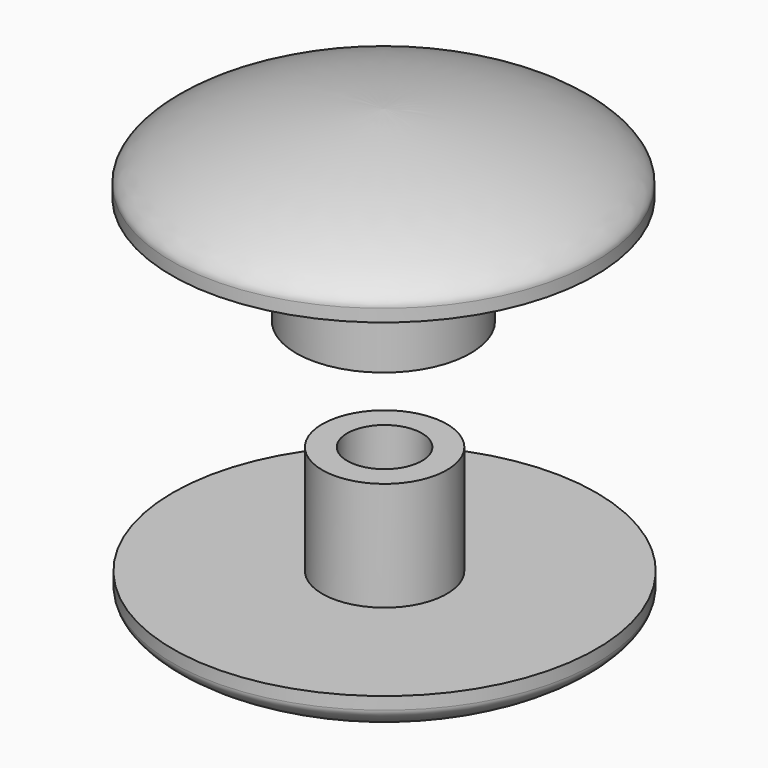
from build123d import *


with BuildPart() as f1:
    # F0 (on Front) → F1 (revolve)
    with BuildSketch(Plane.XZ):
        with BuildLine():
            Line((0, -0.042755), (0, 0))
            Line((0, 0), (0, 6.211114))
            add(Edge.make_bspline(
                [(-17, 0.957245), (-17.049532, 2.364313), (-10.405511, 5.869747), (0, 6.211114)],
                knots=[0, 0, 0, 0, 17.793345, 17.793345, 17.793345, 17.793345], degree=3))
            Line((-17, 0.957245), (-17, -0.042755))
            Line((-17, -0.042755), (-7, -0.042755))
            Line((-7, -0.042755), (-7, -8.790083))
            Line((-7, -8.790083), (-5, -8.790083))
            Line((-5, -8.790083), (-5, -0.042755))
            Line((-5, -0.042755), (0, -0.042755))
        make_face()
    revolve(axis=Axis((0, 0, 3.105557), (0, 0, 1)))


with BuildPart() as f3:
    # F2 (on Front) → F3 (revolve)
    with BuildSketch(Plane.XZ):
        with BuildLine():
            Line((-2.907819, -17.66492), (-4.907819, -17.66492))
            Line((-4.907819, -17.66492), (-4.907819, -26.412248))
            Line((-4.907819, -26.412248), (-16.907819, -26.412248))
            Line((-16.907819, -26.412248), (-16.907819, -27.412248))
            add(Edge.make_bspline(
                [(-16.907819, -27.412248), (-16.957351, -28.819316), (-10.31333, -32.32475), (0.092181, -32.666118)],
                knots=[0, 0, 0, 0, 17.793345, 17.793345, 17.793345, 17.793345], degree=3))
            Line((0.092181, -32.666118), (0.092181, -26.412248))
            Line((0.092181, -26.412248), (-2.907819, -26.412248))
            Line((-2.907819, -26.412248), (-2.907819, -17.66492))
        make_face()
    revolve(axis=Axis((0.092181, 0, -29.539183), (0, 0, -1)))


solid = Compound([f1.part, f3.part])
